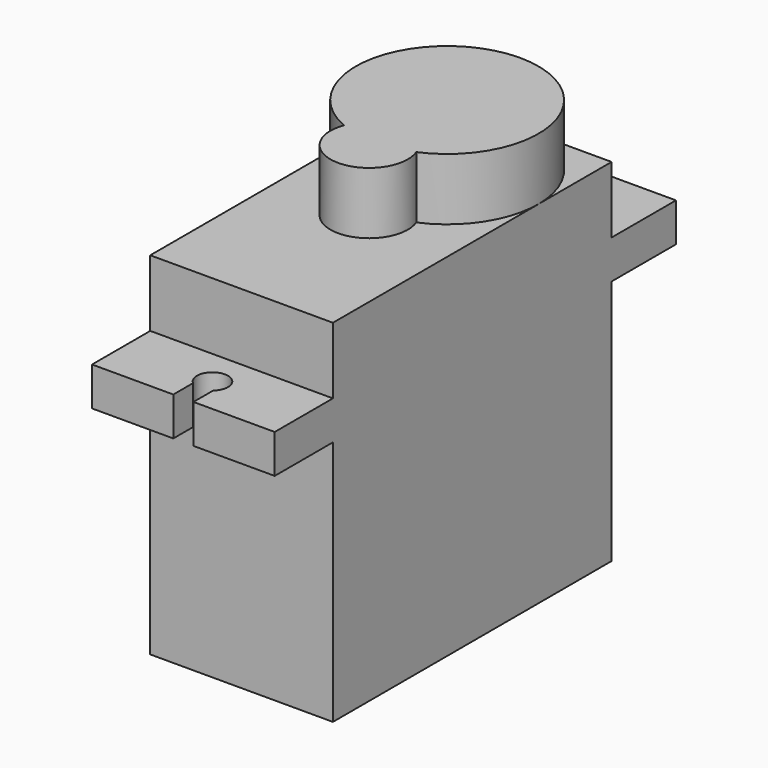
from build123d import *

# Parameters (mm, degrees)
BOX003_W          = 1.3
BOX003_H          = 3.3
BOX003_DEPTH      = 10
BOX002_W          = 1.3
BOX002_H          = 3.3
BOX002_DEPTH      = 10
CYLINDER004_R     = 1
CYLINDER004_DEPTH = 10
CYLINDER003_R     = 1
CYLINDER003_DEPTH = 10
CYLINDER001_R     = 2.5
CYLINDER001_DEPTH = 4
CYLINDER_R        = 5.9
CYLINDER_DEPTH    = 4
BOX001_W          = 11.8
BOX001_H          = 32.4
BOX001_DEPTH      = 2.5
BOX_W             = 11.8
BOX_H             = 22.5
BOX_DEPTH         = 22.7
SKETCH005_W       = 3.6
SKETCH005_H       = 1.2
POCKET001_DEPTH   = 3


with BuildPart() as cubo003:
    # Box003 → Box003 (new body)
    with BuildSketch(Plane(origin=(5.25, 25, 12), x_dir=(1, 0, 0), z_dir=(0, 0, 1))):
        with Locations((0.65, 1.65)):
            Rectangle(BOX003_W, BOX003_H)
    extrude(amount=BOX003_DEPTH)


with BuildPart() as obj1:
    # Box002 → Box002 (new body)
    with BuildSketch(Plane(origin=(5.25, -6, 12), x_dir=(1, 0, 0), z_dir=(0, 0, 1))):
        with Locations((0.65, 1.65)):
            Rectangle(BOX002_W, BOX002_H)
    extrude(amount=BOX002_DEPTH)

    # Fusion005: union Cubo003
    add(cubo003.part)


with BuildPart() as taladro2:
    # Cylinder004 → Cylinder004 (new body)
    with BuildSketch(Plane(origin=(5.9, 24.85, 11), x_dir=(1, 0, 0), z_dir=(0, 0, 1))):
        Circle(CYLINDER004_R)
    extrude(amount=CYLINDER004_DEPTH)


with BuildPart() as taladros001:
    # Cylinder003 → Cylinder003 (new body)
    with BuildSketch(Plane(origin=(5.9, -2.35, 11), x_dir=(1, 0, 0), z_dir=(0, 0, 1))):
        Circle(CYLINDER003_R)
    extrude(amount=CYLINDER003_DEPTH)

    # Fusion004: union Taladro2
    add(taladro2.part)

    # Fusion006: union obj1
    add(obj1.part)


with BuildPart() as cilindro001:
    # Cylinder001 → Cylinder001 (new body)
    with BuildSketch(Plane(origin=(5.9, 10.3, 22.7), x_dir=(1, 0, 0), z_dir=(0, 0, 1))):
        Circle(CYLINDER001_R)
    extrude(amount=CYLINDER001_DEPTH)


with BuildPart() as fusion001:
    # Cylinder → Cylinder (new body)
    with BuildSketch(Plane(origin=(5.9, 16.6, 22.7), x_dir=(1, 0, 0), z_dir=(0, 0, 1))):
        Circle(CYLINDER_R)
    extrude(amount=CYLINDER_DEPTH)

    # Fusion001: union Cilindro001
    add(cilindro001.part)


with BuildPart() as cubo001:
    # Box001 → Box001 (new body)
    with BuildSketch(Plane(origin=(0, -4.7, 15.9), x_dir=(1, 0, 0), z_dir=(0, 0, 1))):
        with Locations((5.9, 16.2)):
            Rectangle(BOX001_W, BOX001_H)
    extrude(amount=BOX001_DEPTH)


with BuildPart() as ranura_cable:
    # Box → Box (new body)
    with BuildSketch(Plane.XY):
        with Locations((5.9, 11.25)):
            Rectangle(BOX_W, BOX_H)
    extrude(amount=BOX_DEPTH)

    # Fusion: union Cubo001
    add(cubo001.part)

    # Fusion003: union Fusion001
    add(fusion001.part)

    # Cut: cut Taladros001
    add(taladros001.part, mode=Mode.SUBTRACT)


with BuildPart() as ranura_cable_1:
    # Cut placement: moved
    add(ranura_cable.part.moved(Location((-5.9, 0, 0))))

    # Sketch005 → Pocket001 (cut)
    with BuildSketch(Plane(origin=(-5.9, 22.5, 0), x_dir=(-1, 0, 0), z_dir=(0, 1, 0))):
        with Locations((-5.9, 5.1)):
            Rectangle(SKETCH005_W, SKETCH005_H)
    extrude(amount=-POCKET001_DEPTH, mode=Mode.SUBTRACT)


solid = ranura_cable_1.part
